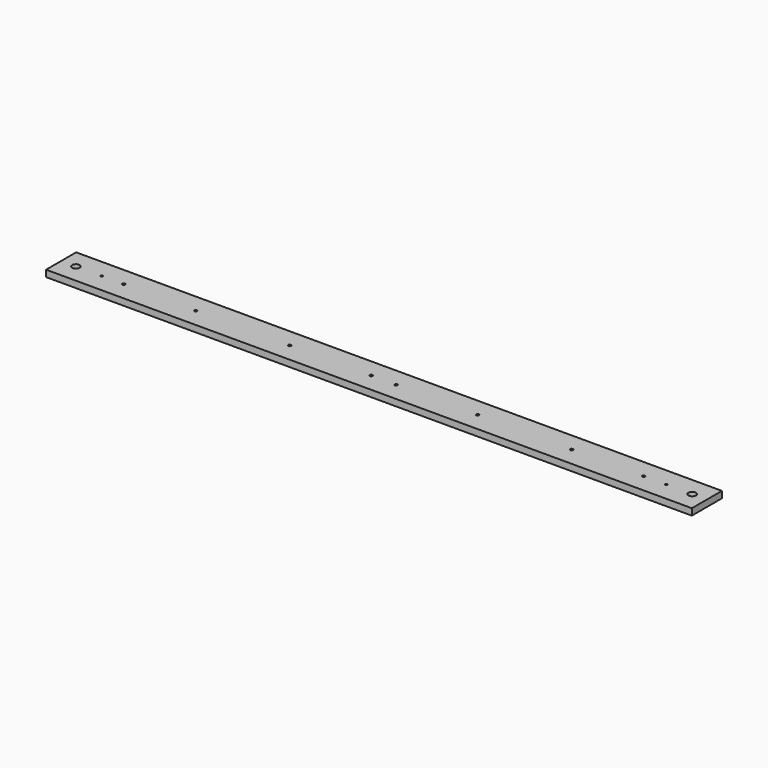
from build123d import *

# Parameters (mm, degrees)
F0_W     = 1031
F0_H     = 60
F0_R     = 6
F0_R_2   = 1.65
F0_R_3   = 2.25
F1_DEPTH = 10.5


with BuildPart() as f1:
    # F0 (on Top) → F1 (new body)
    with BuildSketch(Plane.XY):
        Rectangle(F0_W, F0_H)
        with Locations((-492, 0)):
            Circle(F0_R, mode=Mode.SUBTRACT)
        with Locations((-450.5, 0)):
            Circle(F0_R_2, mode=Mode.SUBTRACT)
        with Locations((-415.5, 0)):
            Circle(F0_R_3, mode=Mode.SUBTRACT)
        with Locations((-300.5, 0)):
            Circle(F0_R_3, mode=Mode.SUBTRACT)
        with Locations((-150.5, 0)):
            Circle(F0_R_3, mode=Mode.SUBTRACT)
        with Locations((-20.5, 0)):
            Circle(F0_R_3, mode=Mode.SUBTRACT)
        with Locations((19.5, 0)):
            Circle(F0_R_3, mode=Mode.SUBTRACT)
        with Locations((149.5, 0)):
            Circle(F0_R_3, mode=Mode.SUBTRACT)
        with Locations((299.5, 0)):
            Circle(F0_R_3, mode=Mode.SUBTRACT)
        with Locations((414.5, 0)):
            Circle(F0_R_3, mode=Mode.SUBTRACT)
        with Locations((450.5, 0)):
            Circle(F0_R_2, mode=Mode.SUBTRACT)
        with Locations((492, 0)):
            Circle(F0_R, mode=Mode.SUBTRACT)
    extrude(amount=F1_DEPTH)


solid = f1.part
